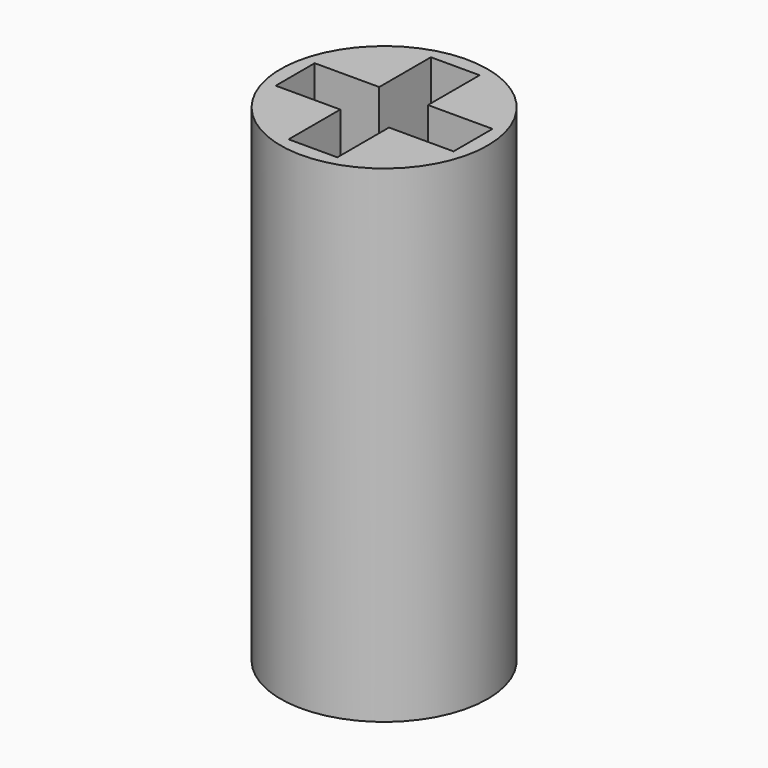
from build123d import *

# Parameters (mm, degrees)
F0_R     = 4.25
F1_DEPTH = 20
F2_W     = 2.65
F2_H     = 2
F2_W_2   = 2
F2_H_2   = 2.65
F3_DEPTH = 19


with BuildPart() as f1:
    # F0 (on Top) → F1 (new body)
    with BuildSketch(Plane.XY):
        Circle(F0_R)
    extrude(amount=F1_DEPTH)

    # F2 (on face) → F3 (cut)
    with BuildSketch(Plane.XY.offset(20)):
        with Locations((2.325, 0)):
            Rectangle(F2_W, F2_H)
        with Locations((0, -2.325)):
            Rectangle(F2_W_2, F2_H_2)
        Rectangle(F2_W_2, F2_H)
        with Locations((-2.325, 0)):
            Rectangle(F2_W, F2_H)
        with Locations((0, 2.325)):
            Rectangle(F2_W_2, F2_H_2)
        with Locations((-2.325, 0)):
            Rectangle(F2_W, F2_H)
    extrude(amount=-F3_DEPTH, mode=Mode.SUBTRACT)


solid = f1.part
